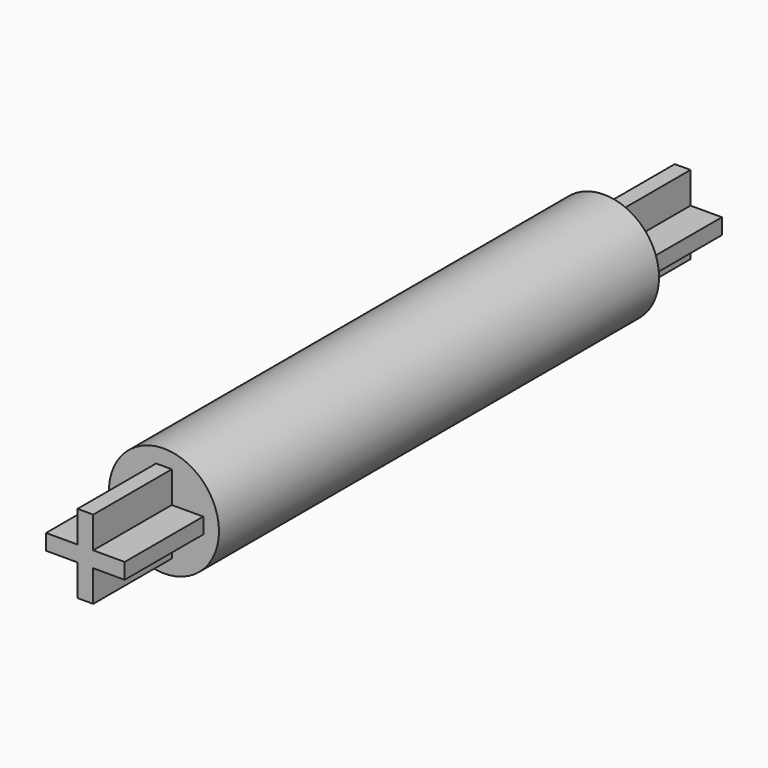
from build123d import *

# Parameters (mm, degrees)
F0_R     = 14
F1_DEPTH = 140
F3_DEPTH = 25
F5_DEPTH = 25


with BuildPart() as f1:
    # F0 (on Front) → F1 (new body)
    with BuildSketch(Plane.XZ):
        Circle(F0_R)
    extrude(amount=F1_DEPTH)

    # F2 (on Front) → F3 (join)
    with BuildSketch(Plane.XZ):
        Polygon((2, 10), (-2, 10), (-2, 2), (-10, 2), (-10, -2), (-2, -2), (-2, -10), (2, -10), (2, -2), (10, -2), (10, 2), (2, 2), align=None)
    extrude(amount=-F3_DEPTH)

    # F4 (on face) → F5 (join)
    with BuildSketch(Plane.XZ.offset(140)):
        Polygon((-2, 2), (-10, 2), (-10, -2), (-2, -2), (-2, -10), (2, -10), (2, -2), (10, -2), (10, 2), (2, 2), (2, 10), (-2, 10), align=None)
    extrude(amount=F5_DEPTH)


solid = f1.part
